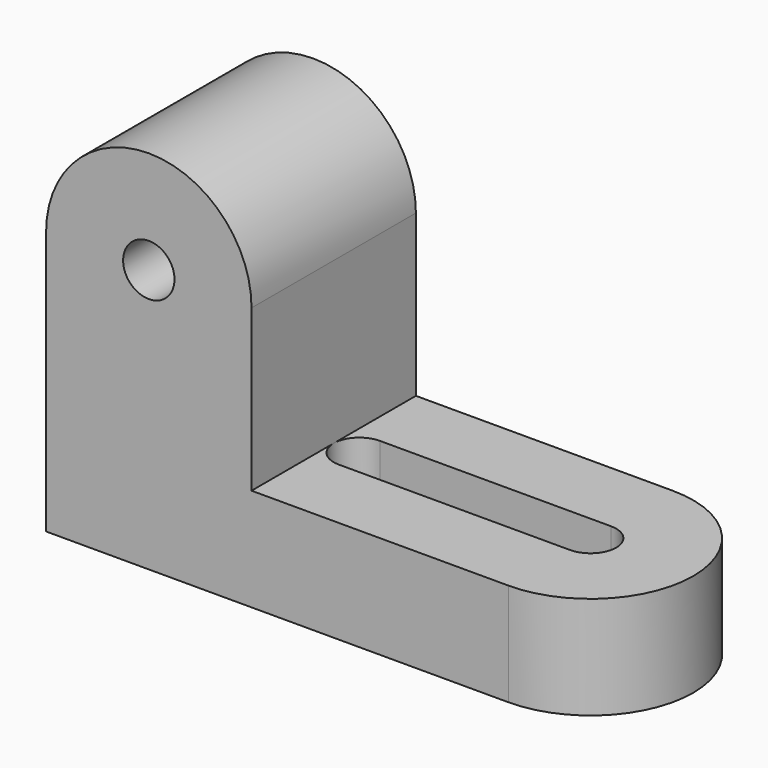
from build123d import *

# Parameters (mm, degrees)
F1_DEPTH = 50.8
F2_R     = 12.7
F3_DEPTH = 101.6


with BuildPart() as f1:
    # F0 (on Top) → F1 (new body)
    with BuildSketch(Plane.XY):
        with BuildLine():
            ThreePointArc((114.3, -50.8), (165.1, 0), (114.3, 50.8))
            Line((114.3, 50.8), (-114.3, 50.8))
            Line((-114.3, 50.8), (-114.3, -50.8))
            Line((-114.3, -50.8), (114.3, -50.8))
        make_face()
        with BuildLine():
            Line((114.3, -12.7), (0, -12.7))
            ThreePointArc((0, -12.7), (-12.7, 0), (0, 12.7))
            Line((0, 12.7), (114.3, 12.7))
            ThreePointArc((114.3, 12.7), (127, 0), (114.3, -12.7))
        make_face(mode=Mode.SUBTRACT)
    extrude(amount=F1_DEPTH)

    # F2 (on face) → F3 (join)
    with BuildSketch(Plane.XZ.offset(50.8)):
        with BuildLine():
            Line((-114.3, 50.8), (-12.7, 50.8))
            Line((-12.7, 50.8), (-12.7, 130.381152))
            ThreePointArc((-12.7, 130.381152), (-63.5, 181.181152), (-114.3, 130.381152))
            Line((-114.3, 130.381152), (-114.3, 50.8))
        make_face()
        with Locations((-63.5, 130.381152)):
            Circle(F2_R, mode=Mode.SUBTRACT)
    extrude(amount=-F3_DEPTH)


solid = f1.part
